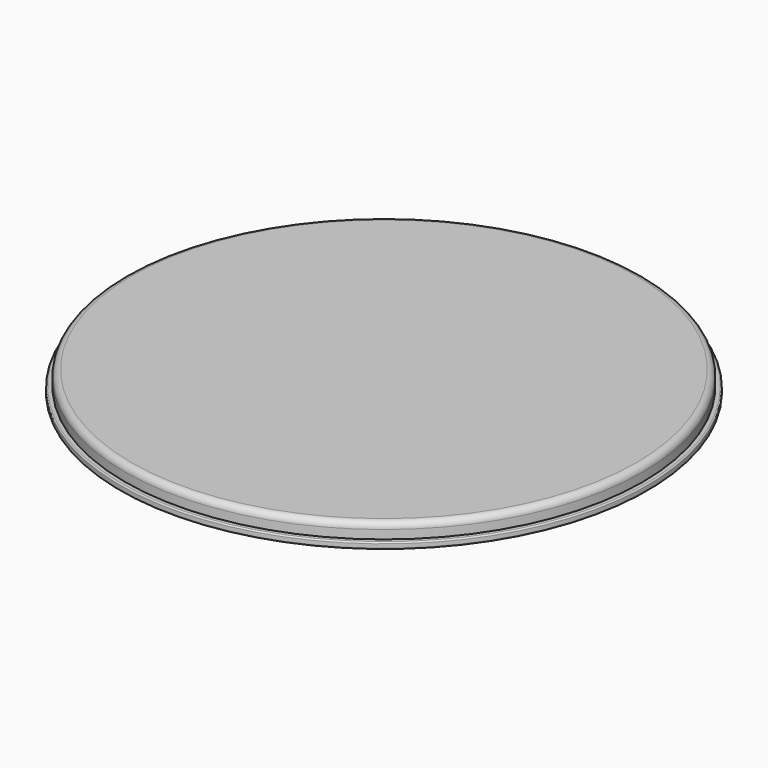
from build123d import *


with BuildPart() as f1:
    # F0 (on Front) → F1 (revolve)
    with BuildSketch(Plane.XZ):
        with BuildLine():
            Line((-199.2, 0), (0, 0))
            Line((0, 0), (0, 1))
            Line((0, 1), (-199.2, 1))
            ThreePointArc((-199.2, 1), (-202.735534, -0.464466), (-204.2, -4))
            Line((-204.2, -4), (-204.2, -10.845949))
            Line((-204.2, -10.845949), (-207.2, -10.845949))
            ThreePointArc((-207.2, -10.845949), (-207.907107, -11.138842), (-208.2, -11.845949))
            Line((-208.2, -11.845949), (-208.2, -14.845949))
            ThreePointArc((-208.2, -14.845949), (-207.907107, -15.553056), (-207.2, -15.845949))
            Line((-207.2, -15.845949), (-204.2, -15.845949))
            ThreePointArc((-204.2, -15.845949), (-203.492893, -15.553056), (-203.2, -14.845949))
            Line((-203.2, -14.845949), (-203.2, -10.845949))
            Line((-203.2, -10.845949), (-203.2, -4))
            ThreePointArc((-203.2, -4), (-202.028427, -1.171573), (-199.2, 0))
        make_face()
    revolve(axis=Axis((0, 0, 0.5), (0, 0, -1)))


solid = f1.part
